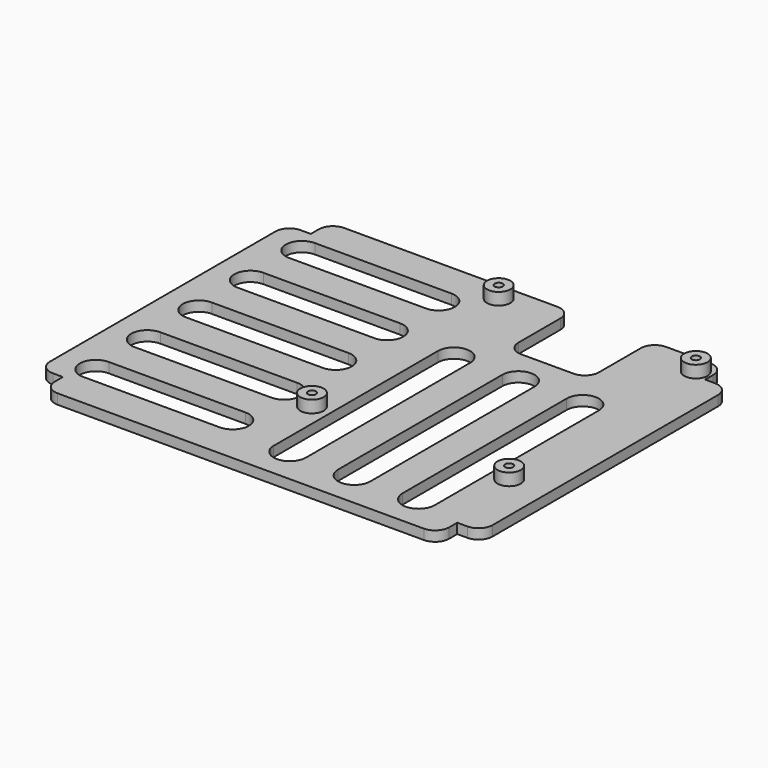
from build123d import *

# Parameters (mm, degrees)
SKETCH_W                           = 110
SKETCH_H                           = 89
PAD_DEPTH                          = 2.5
SKETCH001_R                        = 2.9
PAD001_DEPTH                       = 3
SKETCH002_R                        = 1
POCKET_DEPTH                       = 5.501
SKETCH003_W                        = 20
SKETCH003_H                        = 20
POCKET001_DEPTH                    = 2.501
POCKET002_DEPTH                    = 285.705873
POCKET002_LINEARPATTERN_2_DEPTH    = 285.705873
LINEARPATTERN001_COUNT             = 2
LINEARPATTERN001_PITCH             = 16
POCKET003_DEPTH                    = 285.705873
POCKET003_LINEARPATTERN002_2_DEPTH = 285.705873
POCKET003_LINEARPATTERN002_3_DEPTH = 285.705873
LINEARPATTERN003_COUNT             = 3
LINEARPATTERN003_PITCH             = 16
FILLET_R                           = 3.5
SKETCH006_W                        = 6
SKETCH006_H                        = 6
POCKET004_DEPTH                    = 285.705873
FILLET001_R                        = 3.5


with BuildPart() as part:
    # Sketch → Pad (new body)
    with BuildSketch(Plane.XY):
        with Locations((55, 0)):
            Rectangle(SKETCH_W, SKETCH_H)
    extrude(amount=PAD_DEPTH)

    # Sketch001 (on Face6 of Pad) → Pad001 (join)
    with BuildSketch(Plane.XY.offset(2.5)):
        with Locations((100.5, 40)):
            Circle(SKETCH001_R)
        with Locations((100.5, -18)):
            Circle(SKETCH001_R)
        with Locations((51.5, 40)):
            Circle(SKETCH001_R)
        with Locations((51.5, -18)):
            Circle(SKETCH001_R)
    extrude(amount=PAD001_DEPTH)

    # Sketch002 (on Face13 of Pad001) → Pocket (cut, through all)
    with BuildSketch(Plane.XY.offset(5.5)):
        with Locations((51.5, 40)):
            Circle(SKETCH002_R)
        with Locations((100.5, 40)):
            Circle(SKETCH002_R)
        with Locations((51.5, -18)):
            Circle(SKETCH002_R)
        with Locations((100.5, -18)):
            Circle(SKETCH002_R)
    extrude(amount=-POCKET_DEPTH, mode=Mode.SUBTRACT)

    # Sketch003 → Pocket001 (cut, through all)
    with BuildSketch(Plane.XY.offset(2.5)):
        with Locations((76, 34.5)):
            Rectangle(SKETCH003_W, SKETCH003_H)
    extrude(amount=-POCKET001_DEPTH, mode=Mode.SUBTRACT)

    # Sketch004 (on Face5 of Pocket001) → Pocket002 (cut, through all)
    with BuildSketch(Plane.XY.offset(2.5)):
        with BuildLine():
            ThreePointArc((80, 15.5), (76, 19.5), (72, 15.5))
            Line((72, 15.5), (72, -35.5))
            ThreePointArc((72, -35.5), (76, -39.5), (80, -35.5))
            Line((80, 15.5), (80, -35.5))
        make_face()
    pocket002 = extrude(amount=-POCKET002_DEPTH, mode=Mode.SUBTRACT)

    # Sketch004 LinearPattern 2 → Pocket002 LinearPattern 2 (cut, through all)
    with BuildSketch(Plane(origin=(16, 0, 2.5), x_dir=(1, 0, 0), z_dir=(0, 0, 1))):
        with BuildLine():
            ThreePointArc((80, 15.5), (76, 19.5), (72, 15.5))
            Line((72, 15.5), (72, -35.5))
            ThreePointArc((72, -35.5), (76, -39.5), (80, -35.5))
            Line((80, 15.5), (80, -35.5))
        make_face()
    pocket002_linearpattern_2 = extrude(amount=-POCKET002_LINEARPATTERN_2_DEPTH, mode=Mode.SUBTRACT)

    # LinearPattern001: Pocket002, Pocket002 LinearPattern 2 ×2
    with Locations(*[(-i * LINEARPATTERN001_PITCH, 0, 0) for i in range(1, LINEARPATTERN001_COUNT)]):
        add(pocket002, mode=Mode.SUBTRACT)
        add(pocket002_linearpattern_2, mode=Mode.SUBTRACT)

    # Sketch005 (on Face5 of MultiTransform) → Pocket003 (cut, through all)
    with BuildSketch(Plane.XY.offset(2.5)):
        with BuildLine():
            ThreePointArc((9, 4), (5, 0), (9, -4))
            Line((9, -4), (43, -4))
            ThreePointArc((43, -4), (47, 0), (43, 4))
            Line((9, 4), (43, 4))
        make_face()
    pocket003 = extrude(amount=-POCKET003_DEPTH, mode=Mode.SUBTRACT)

    # Sketch005 LinearPattern002 2 → Pocket003 LinearPattern002 2 (cut, through all)
    with BuildSketch(Plane(origin=(0, 16, 2.5), x_dir=(1, 0, 0), z_dir=(0, 0, 1))):
        with BuildLine():
            ThreePointArc((9, 4), (5, 0), (9, -4))
            Line((9, -4), (43, -4))
            ThreePointArc((43, -4), (47, 0), (43, 4))
            Line((9, 4), (43, 4))
        make_face()
    pocket003_linearpattern002_2 = extrude(amount=-POCKET003_LINEARPATTERN002_2_DEPTH, mode=Mode.SUBTRACT)

    # Sketch005 LinearPattern002 3 → Pocket003 LinearPattern002 3 (cut, through all)
    with BuildSketch(Plane(origin=(0, 32, 2.5), x_dir=(1, 0, 0), z_dir=(0, 0, 1))):
        with BuildLine():
            ThreePointArc((9, 4), (5, 0), (9, -4))
            Line((9, -4), (43, -4))
            ThreePointArc((43, -4), (47, 0), (43, 4))
            Line((9, 4), (43, 4))
        make_face()
    pocket003_linearpattern002_3 = extrude(amount=-POCKET003_LINEARPATTERN002_3_DEPTH, mode=Mode.SUBTRACT)

    # LinearPattern003: Pocket003, Pocket003 LinearPattern002 2, Pocket003 LinearPattern002 3 ×3
    with Locations(*[(0, -i * LINEARPATTERN003_PITCH, 0) for i in range(1, LINEARPATTERN003_COUNT)]):
        add(pocket003, mode=Mode.SUBTRACT)
        add(pocket003_linearpattern002_2, mode=Mode.SUBTRACT)
        add(pocket003_linearpattern002_3, mode=Mode.SUBTRACT)

    # Fillet
    fillet_edges = [part.edges().sort_by_distance(p)[0] for p in [
        (110, 44.5, 1.25),
        (66, 44.5, 1.25),
        (66, 24.5, 1.25),
        (110, -44.5, 1.25),
        (86, 44.5, 1.25),
        (86, 24.5, 1.25),
        (0, 44.5, 1.25),
        (0, -44.5, 1.25),
    ]]
    fillet(fillet_edges, radius=FILLET_R)

    # Sketch006 (on Face5 of Fillet) → Pocket004 (cut, through all)
    with BuildSketch(Plane.XY.offset(2.5)):
        with Locations((3, 41.5)):
            Rectangle(SKETCH006_W, SKETCH006_H)
        with Locations((107, 41.5)):
            Rectangle(SKETCH006_W, SKETCH006_H)
    pocket004 = extrude(amount=-POCKET004_DEPTH, mode=Mode.SUBTRACT)

    # Mirrored: Pocket004 across XZ
    add(pocket004.mirror(Plane.XZ), mode=Mode.SUBTRACT)

    # Fillet001
    fillet001_edges = [part.edges().sort_by_distance(p)[0] for p in [
        (6, 44.5, 1.25),
        (0, 38.5, 1.25),
        (104, 44.5, 1.25),
        (110, 38.5, 1.25),
        (110, -38.5, 1.25),
        (104, -44.5, 1.25),
        (6, -44.5, 1.25),
        (0, -38.5, 1.25),
    ]]
    fillet(fillet001_edges, radius=FILLET001_R)


solid = part.part
